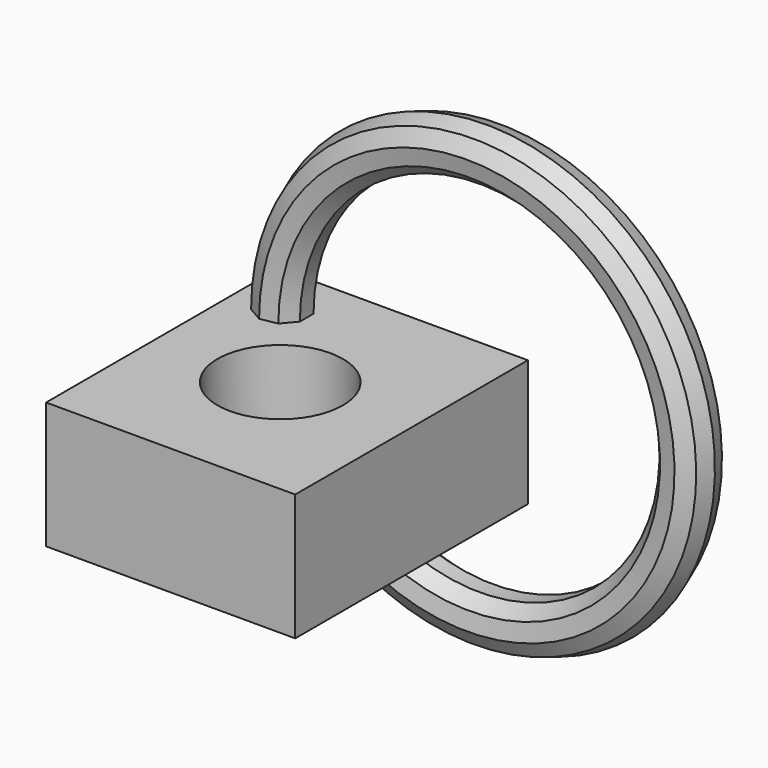
from build123d import *

# Parameters (mm, degrees)
F0_W     = 49.954958
F0_H     = 58.300882
F1_DEPTH = 12.7
F2_R     = 12.587568
F3_DEPTH = 25.401


with BuildPart() as f1:
    # F0 (on Top) → F1 (new body, symmetric)
    with BuildSketch(Plane.XY):
        with Locations((-102.361765, 17.77092)):
            Rectangle(F0_W, F0_H)
    extrude(amount=F1_DEPTH, both=True)

    # F2 (on face) → F3 (cut, through all)
    with BuildSketch(Plane.XY.offset(12.7)):
        with Locations((-103.024021, 16.906289)):
            Circle(F2_R)
    extrude(amount=-F3_DEPTH, mode=Mode.SUBTRACT)

    # F4 (on face) → F5 (revolve)
    with BuildSketch(Plane.XY.offset(12.7)):
        Polygon((-113.443017, 34.847543), (-113.443017, 38.281992), (-115.650638, 40.912932), (-119.03291, 41.509318), (-122.00723, 39.792094), (-123.181881, 36.564767), (-122.00723, 33.337441), (-119.03291, 31.620217), (-115.650638, 32.216602), align=None)
    revolve(axis=Axis((-77.384286, 17.77092, 12.7), (0, -1, 0)))


solid = f1.part
